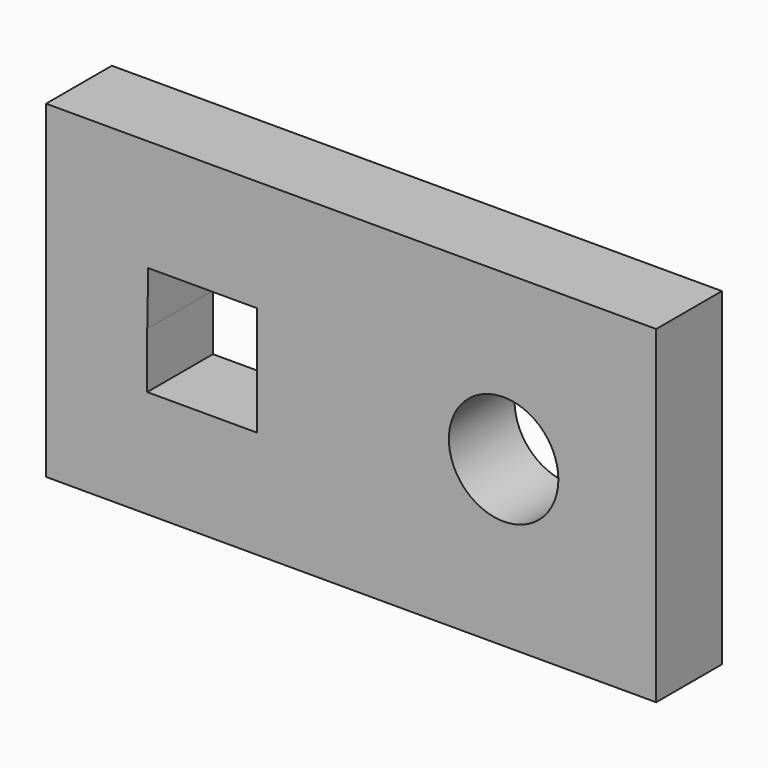
from build123d import *

# Parameters (mm, degrees)
F0_R     = 12.7
F1_DEPTH = 19.05


with BuildPart() as f1:
    # F0 (on Front) → F1 (new body)
    with BuildSketch(Plane.XZ):
        Polygon((68.192681, 60.143105), (-73.285319, 60.143105), (-73.285319, -16.056895), (-2.546319, -16.056895), (68.192681, -16.056895), align=None)
        Polygon((-49.599245, 34.288078), (-37.1323, 34.288078), (-24.4323, 34.288078), (-24.4323, 21.588078), (-24.4323, 8.888078), (-37.1323, 8.888078), (-49.830122, 8.888078), (-49.830122, 21.823271), align=None, mode=Mode.SUBTRACT)
        with Locations((32.810481, 22.043105)):
            Circle(F0_R, mode=Mode.SUBTRACT)
    extrude(amount=F1_DEPTH)


solid = f1.part
